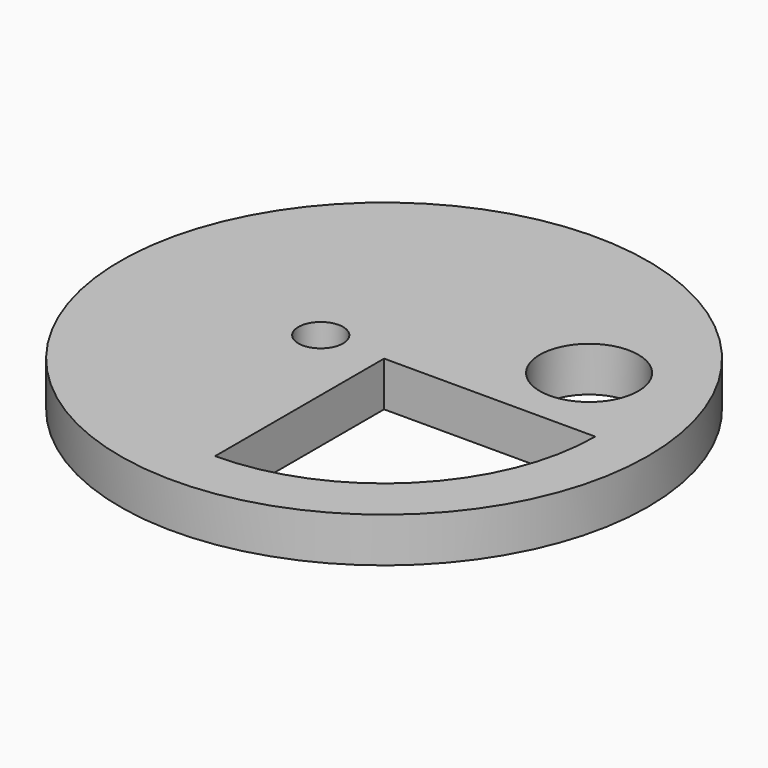
from build123d import *

# Parameters (mm, degrees)
F0_R     = 37.5
F0_R_2   = 3.175
F0_R_3   = 7
F1_DEPTH = 6.35


with BuildPart() as f1:
    # F0 (on Top) → F1 (new body)
    with BuildSketch(Plane.XY):
        Circle(F0_R)
        with BuildLine():
            ThreePointArc((30, 0), (21.213203, -21.213203), (0, -30))
            Line((0, -30), (0, 0))
            Line((0, 0), (30, 0))
        make_face(mode=Mode.SUBTRACT)
        with Locations((-9, 0)):
            Circle(F0_R_2, mode=Mode.SUBTRACT)
        with Locations((19.906892, 11.520228)):
            Circle(F0_R_3, mode=Mode.SUBTRACT)
    extrude(amount=F1_DEPTH)


solid = f1.part
